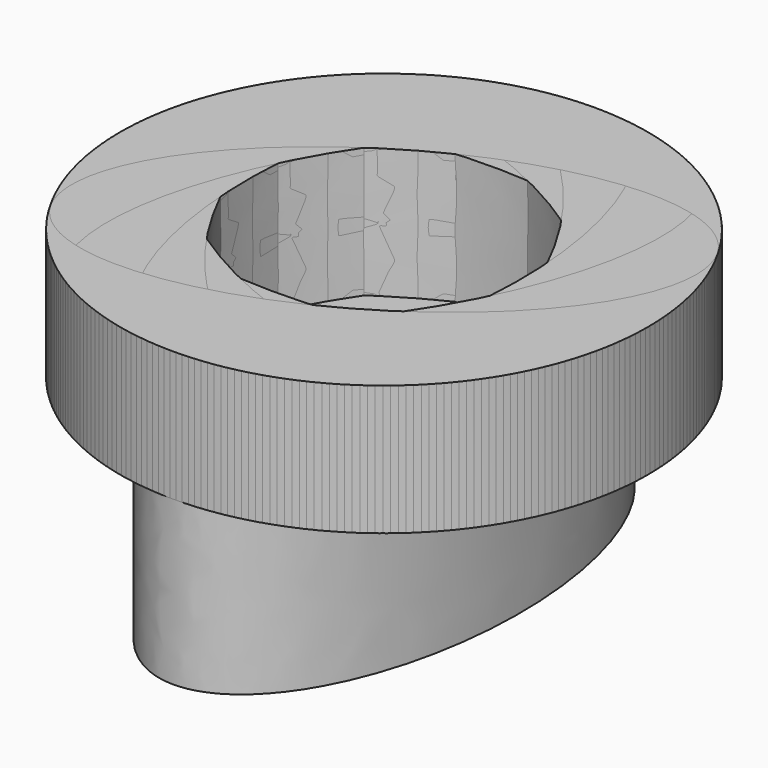
from build123d import *

# Parameters (mm, degrees)
F1_DEPTH = 25.4
F2_R     = 41.002684
F4_DEPTH = 20.205535
F5_COUNT = 9
F5_ANGLE = 240


with BuildPart() as f1:
    # F0 (on Top) → F1 (new body)
    with BuildSketch(Plane.XY):
        with BuildLine():
            add(Edge.make_bspline(
                [(33.210397, 40.924534), (-3.369438, 40.924534), (14.920479, -20.462267), (33.210397, -81.849068), (51.500314, -20.462267), (69.790231, 40.924534), (33.210397, 40.924534)],
                knots=[0, 0, 0, 2.094395, 2.094395, 4.18879, 4.18879, 6.283185, 6.283185, 6.283185], degree=2, weights=[1, 0.5, 1, 0.5, 1, 0.5, 1]))
        make_face()
    extrude(amount=F1_DEPTH)


with BuildPart() as f4:
    # F2 (on face) → F4 (new body)
    with BuildSketch(Plane.XY.offset(25.4)):
        with Locations((33.210397, 0)):
            Circle(F2_R)
        with BuildLine():
            add(Edge.make_bspline(
                [(33.210397, 40.924534), (-3.369438, 40.924534), (14.920479, -20.462267), (33.210397, -81.849068), (51.500314, -20.462267), (69.790231, 40.924534), (33.210397, 40.924534)],
                knots=[0, 0, 0, 2.094395, 2.094395, 4.18879, 4.18879, 6.283185, 6.283185, 6.283185], degree=2, weights=[1, 0.5, 1, 0.5, 1, 0.5, 1]))
        make_face(mode=Mode.SUBTRACT)
    extrude(amount=F4_DEPTH)


with BuildPart() as f5_1:
    # F5: instance of F4
    add(f4.part.rotate(Axis((33.210397, 0, 45.605535), (0, 0, -1)), 1 * F5_ANGLE / (F5_COUNT - 1)))


with BuildPart() as f5_2:
    # F5: instance of F4
    add(f4.part.rotate(Axis((33.210397, 0, 45.605535), (0, 0, -1)), 2 * F5_ANGLE / (F5_COUNT - 1)))


with BuildPart() as f5_3:
    # F5: instance of F4
    add(f4.part.rotate(Axis((33.210397, 0, 45.605535), (0, 0, -1)), 3 * F5_ANGLE / (F5_COUNT - 1)))


with BuildPart() as f5_4:
    # F5: instance of F4
    add(f4.part.rotate(Axis((33.210397, 0, 45.605535), (0, 0, -1)), 4 * F5_ANGLE / (F5_COUNT - 1)))


with BuildPart() as f5_5:
    # F5: instance of F4
    add(f4.part.rotate(Axis((33.210397, 0, 45.605535), (0, 0, -1)), 5 * F5_ANGLE / (F5_COUNT - 1)))


with BuildPart() as f5_6:
    # F5: instance of F4
    add(f4.part.rotate(Axis((33.210397, 0, 45.605535), (0, 0, -1)), 6 * F5_ANGLE / (F5_COUNT - 1)))


with BuildPart() as f5_7:
    # F5: instance of F4
    add(f4.part.rotate(Axis((33.210397, 0, 45.605535), (0, 0, -1)), 7 * F5_ANGLE / (F5_COUNT - 1)))


with BuildPart() as f5_8:
    # F5: instance of F4
    add(f4.part.rotate(Axis((33.210397, 0, 45.605535), (0, 0, -1)), 8 * F5_ANGLE / (F5_COUNT - 1)))


solid = Compound([f1.part, f4.part, f5_1.part, f5_2.part, f5_3.part, f5_4.part, f5_5.part, f5_6.part, f5_7.part, f5_8.part])
